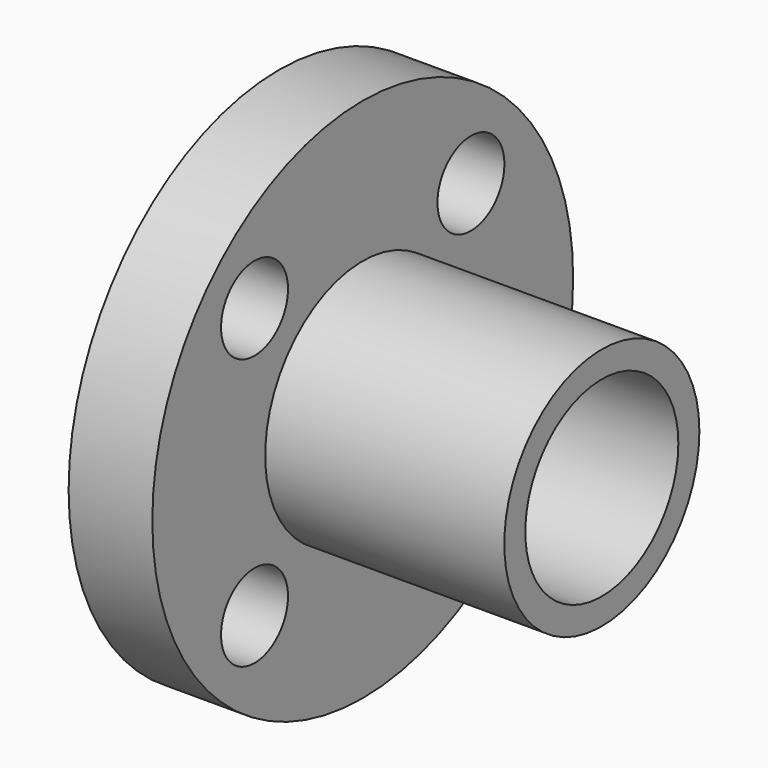
from build123d import *

# Parameters (mm, degrees)
F2_R     = 1.75
F3_DEPTH = 12.5


with BuildPart() as f1:
    # F0 (on Top) → F1 (revolve)
    with BuildSketch(Plane.XY):
        Polygon((-2.95, 5.1), (-2.95, 4), (12.05, 4), (12.05, 5.1), (2.05, 5.1), (2.05, 11), (-1.45, 11), (-1.45, 5.1), align=None)
    revolve(axis=Axis((4.55, 0, 0), (1, 0, 0)))

    # F2 (on Right) → F3 (cut, symmetric)
    with BuildSketch(Plane.YZ):
        with Locations((-5.656854, 5.656854)):
            Circle(F2_R)
        with Locations((5.656854, 5.656854)):
            Circle(F2_R)
        with Locations((5.656854, -5.656854)):
            Circle(F2_R)
        with Locations((-5.656854, -5.656854)):
            Circle(F2_R)
    extrude(amount=F3_DEPTH, both=True, mode=Mode.SUBTRACT)


solid = f1.part
